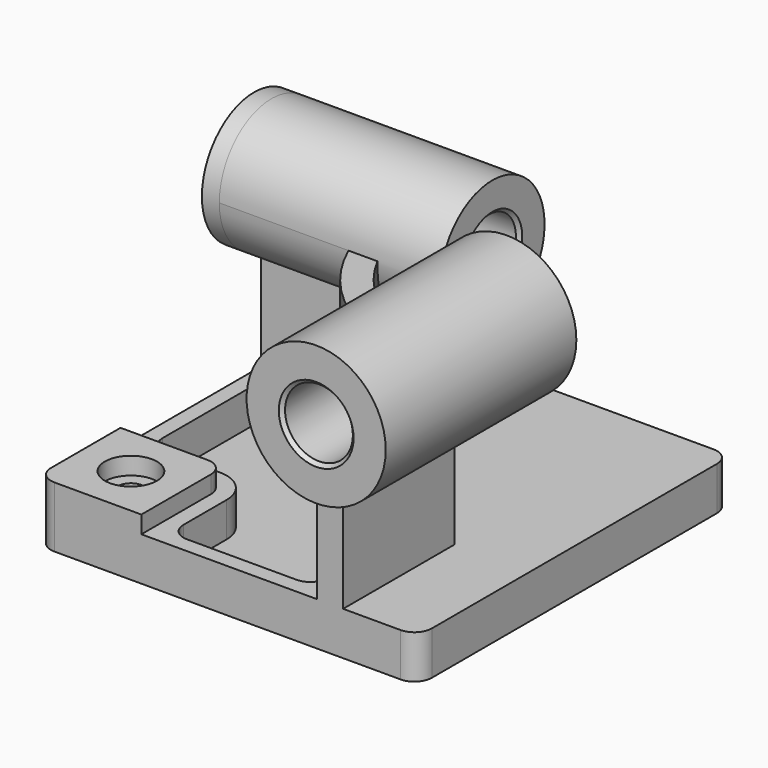
from build123d import *

# Parameters (mm, degrees)
F0_W            = 219
F0_H            = 225
F1_DEPTH        = 25
F3_DEPTH        = 95
F4_R            = 37.5
F5_DEPTH        = 10
F5_DEPTH_BACK   = 127
F6_R            = 40
F7_DEPTH        = 10
F7_DEPTH_BACK   = 127
F8_W            = 60
F8_H            = 60
F9_DEPTH        = 10
F10_R           = 10
F12_DEPTH       = 20
F14_D           = 15
F14_CBORE_D     = 30
F14_CBORE_DEPTH = 10
F15_R           = 10
F16_R           = 19.5
F17_DEPTH       = 229.001
F18_R           = 19.5
F19_DEPTH       = 235.001
F20_SIZE        = 2
F21_R           = 10


with BuildPart() as f1:
    # F0 (on Top) → F1 (new body)
    with BuildSketch(Plane.XY):
        Rectangle(F0_W, F0_H)
    extrude(amount=F1_DEPTH)

    # F2 (on face) → F3 (join)
    with BuildSketch(Plane.XY.offset(25)):
        with BuildLine():
            Line((-29.5, 63.5), (-109.5, 63.5))
            Line((-109.5, 63.5), (-109.5, 48.5))
            Line((-109.5, 48.5), (-43.571649, 48.5))
            ThreePointArc((-43.571649, 48.5), (-12.195597, -15.195597), (51.5, -46.571649))
            Line((51.5, -46.571649), (51.5, -112.5))
            Line((51.5, -112.5), (66.5, -112.5))
            Line((66.5, -112.5), (66.5, -32.5))
            ThreePointArc((66.5, -32.5), (-1.588995, -4.588995), (-29.5, 63.5))
        make_face()
    extrude(amount=F3_DEPTH)

    # F4 (on face) → F5 (join, two sides)
    with BuildSketch(Plane(origin=(-109.5, 0, 0), x_dir=(0, -1, 0), z_dir=(-1, 0, 0))) as f5_sk:
        with Locations((-56, 120)):
            Circle(F4_R)
    extrude(amount=F5_DEPTH)
    extrude(f5_sk.sketch, amount=-F5_DEPTH_BACK)

    # F6 (on face) → F7 (join, two sides)
    with BuildSketch(Plane.XZ.offset(112.5)) as f7_sk:
        with Locations((59, 120)):
            Circle(F6_R)
    extrude(amount=F7_DEPTH)
    extrude(f7_sk.sketch, amount=-F7_DEPTH_BACK)

    # F8 (on face) → F9 (join)
    with BuildSketch(Plane.XY.offset(25)):
        with Locations((-79.5, -82.5)):
            Rectangle(F8_W, F8_H)
    extrude(amount=F9_DEPTH)

    # F10
    f10_edges = [f1.edges().sort_by_distance(p)[0] for p in [
        (-49.5, -52.5, 30),
    ]]
    fillet(f10_edges, radius=F10_R)

    # F11 (on face) → F12 (cut)
    with BuildSketch(Plane.XY.offset(25)):
        with BuildLine():
            ThreePointArc((42.5, -54.205123), (-18.559558, -21.559558), (-51.205123, 39.5))
            Line((-51.205123, 39.5), (-100.5, 39.5))
            Line((-100.5, 39.5), (-100.5, -43.5))
            Line((-100.5, -43.5), (-59.5, -43.5))
            ThreePointArc((-59.5, -43.5), (-46.064971, -49.064971), (-40.5, -62.5))
            Line((-40.5, -62.5), (-40.5, -103.5))
            Line((-40.5, -103.5), (42.5, -103.5))
            Line((42.5, -103.5), (42.5, -54.205123))
        make_face()
    extrude(amount=-F12_DEPTH, mode=Mode.SUBTRACT)

    # F14 (through all)
    with Locations(Plane.XY.offset(35)):
        with Locations((-79.5, -82.5)):
            CounterBoreHole(F14_D / 2, F14_CBORE_D / 2, F14_CBORE_DEPTH)

    # F15
    f15_edges = [f1.edges().sort_by_distance(p)[0] for p in [
        (42.5, -54.205123, 15),
        (-51.205123, 39.5, 15),
        (42.5, -103.5, 15),
        (-40.5, -103.5, 15),
        (-100.5, 39.5, 15),
        (-100.5, -43.5, 15),
    ]]
    fillet(f15_edges, radius=F15_R)

    # F16 (on face) → F17 (cut, through all)
    with BuildSketch(Plane(origin=(-119.5, 0, 0), x_dir=(0, -1, 0), z_dir=(-1, 0, 0))):
        with Locations((-56, 120)):
            Circle(F16_R)
    extrude(amount=-F17_DEPTH, mode=Mode.SUBTRACT)

    # F18 (on face) → F19 (cut, through all)
    with BuildSketch(Plane.XZ.offset(122.5)):
        with Locations((59, 120)):
            Circle(F18_R)
    extrude(amount=-F19_DEPTH, mode=Mode.SUBTRACT)

    # F20
    f20_edges = [f1.edges().sort_by_distance(p)[0] for p in [
        (-119.5, 75.5, 120),
        (39.5, -122.5, 120),
        (39.5, 14.5, 120),
        (17.5, 75.5, 120),
    ]]
    chamfer(f20_edges, length=F20_SIZE)

    # F21
    f21_edges = [f1.edges().sort_by_distance(p)[0] for p in [
        (-109.5, -112.5, 17.5),
        (109.5, -112.5, 12.5),
        (109.5, 112.5, 12.5),
        (-109.5, 112.5, 12.5),
    ]]
    fillet(f21_edges, radius=F21_R)


solid = f1.part
